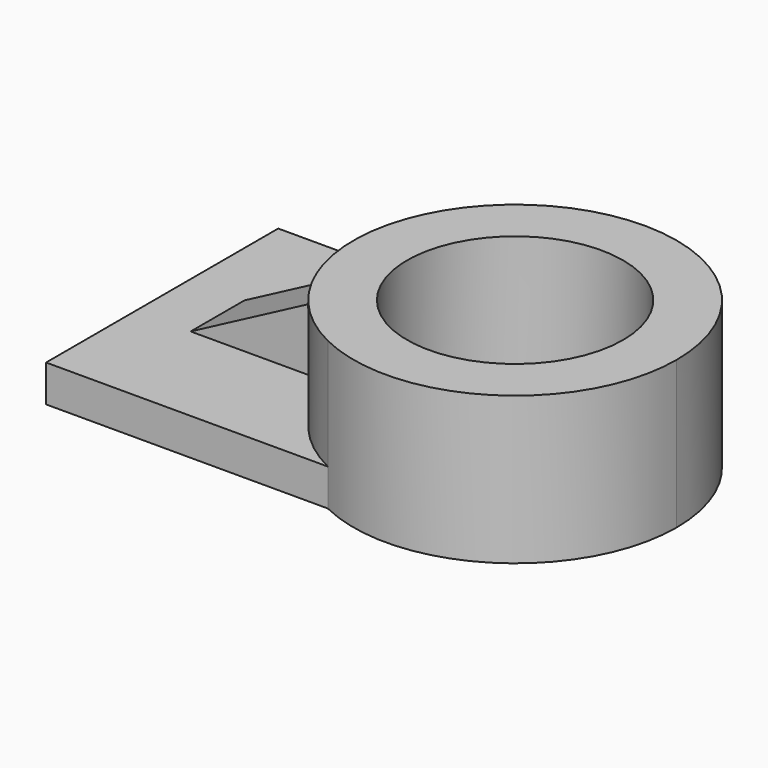
from build123d import *

# Parameters (mm, degrees)
F1_DEPTH = 12.7
F0_R     = 37.1561750652
F2_DEPTH = 50.8
F3_W     = 62.4604108743
F3_H     = 23.1594787911
F4_DEPTH = 38.1
F6_DEPTH = 25.4


with BuildPart() as f1:
    # F0 (on Top) → F1 (new body)
    with BuildSketch(Plane.XY):
        with BuildLine():
            Line((23.0791009963, 65.5601993203), (-73.9074721932, 65.5601993203))
            Line((-73.9074721932, 65.5601993203), (-73.9074721932, -34.29678455))
            Line((-73.9074721932, -34.29678455), (23.0791009963, -34.29678455))
            ThreePointArc((23.0791009963, -34.29678455), (-8.0472334197, 15.6317073852), (23.0791009963, 65.5601993203))
        make_face()
    extrude(amount=F1_DEPTH)

    # F0 (on Top) → F2 (join)
    with BuildSketch(Plane.XY):
        with BuildLine():
            ThreePointArc((103.1673720276, 15.6317073852), (76.978188725, 62.8201208563), (23.0791009963, 65.5601993203))
            ThreePointArc((23.0791009963, 65.5601993203), (-8.0472334197, 15.6317073852), (23.0791009963, -34.29678455))
            ThreePointArc((23.0791009963, -34.29678455), (76.978188725, -31.556706086), (103.1673720276, 15.6317073852))
        make_face()
        with Locations((47.5600693039, 15.6317073852)):
            Circle(F0_R, mode=Mode.SUBTRACT)
    extrude(amount=F2_DEPTH)

    # F3 (on Top) → F4 (join)
    with BuildSketch(Plane.XY):
        with Locations((-23.632629076, 15.6614030711)):
            Rectangle(F3_W, F3_H)
    extrude(amount=F4_DEPTH)

    # F5 (on face) → F6 (cut)
    with BuildSketch(Plane.XZ.offset(-4.0816636756)):
        Polygon((-54.8628345132, 38.1), (-54.8628345132, 12.7), (-6.8344948225, 38.1), align=None)
    extrude(amount=-F6_DEPTH, mode=Mode.SUBTRACT)


solid = f1.part
